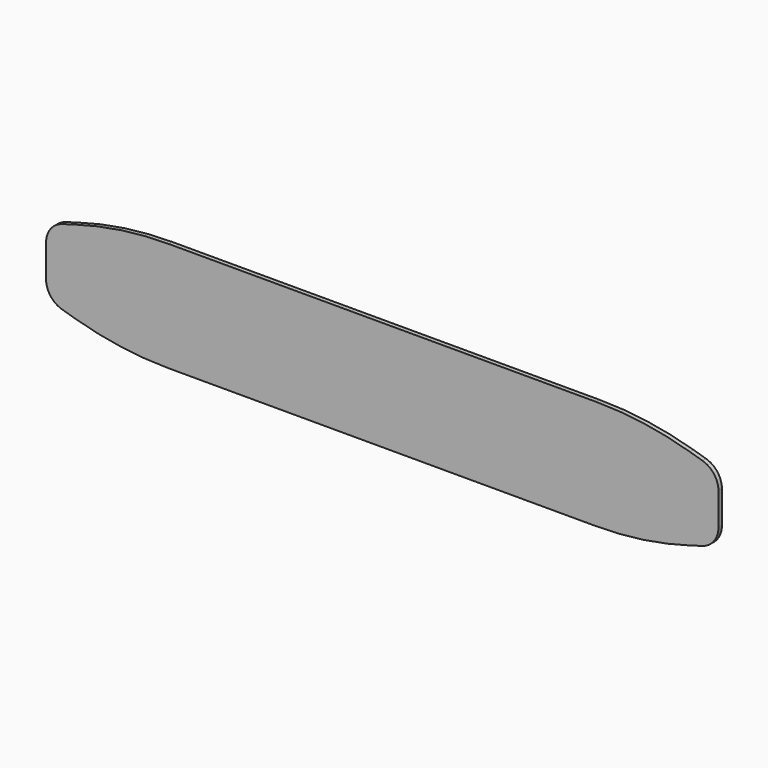
from build123d import *

# Parameters (mm, degrees)
F1_DEPTH = 2
F2_R     = 10.16
F3_R     = 152.4


with BuildPart() as f1:
    # F0 (on Front) → F1 (new body)
    with BuildSketch(Plane.XZ):
        Polygon((-146.152106, 9.9886), (-112.152106, 0), (126.847894, 0), (160.847894, 9.9987), (160.847894, 39.9987), (126.847894, 50), (-112.152106, 50), (-146.152106, 39.986), align=None)
    extrude(amount=F1_DEPTH)

    # F2
    f2_edges = [f1.edges().sort_by_distance(p)[0] for p in [
        (-146.152106, -1, 39.986),
        (-146.152106, -1, 9.9886),
        (160.847894, -1, 9.9987),
        (160.847894, -1, 39.9987),
    ]]
    fillet(f2_edges, radius=F2_R)

    # F3
    f3_edges = [f1.edges().sort_by_distance(p)[0] for p in [
        (126.847894, -1, 50),
        (126.847894, -1, 0),
        (-112.152106, -1, 50),
        (-112.152106, -1, 0),
    ]]
    fillet(f3_edges, radius=F3_R)


solid = f1.part
